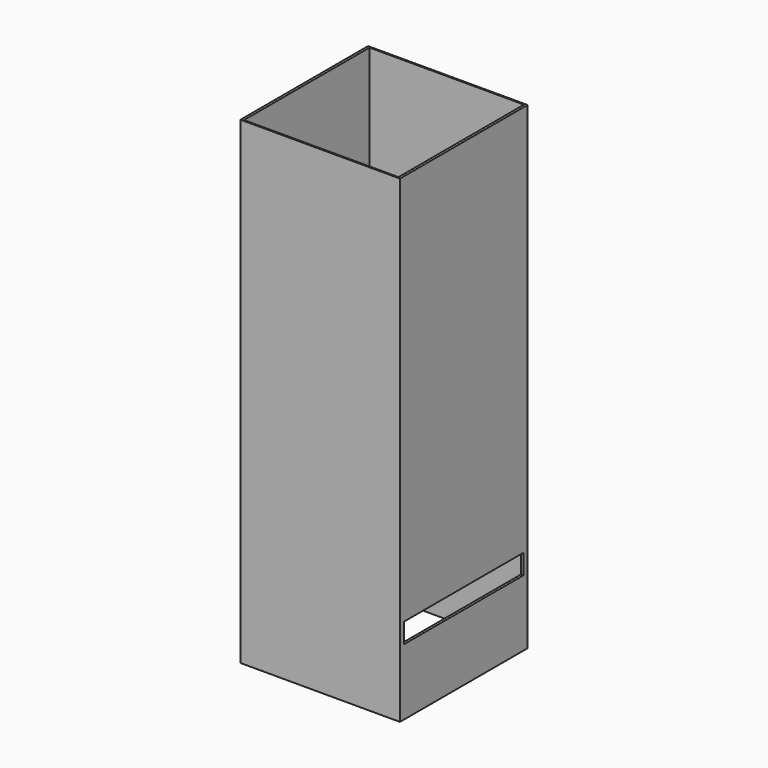
from build123d import *

# Parameters (mm, degrees)
F0_W     = 101.6
F0_H     = 304.8
F1_DEPTH = 50.8
F2_W     = 98.425
F2_H     = 100.000558
F3_DEPTH = 304.8
F4_W     = 95.25
F4_H     = 12.7
F5_DEPTH = 25.4
F6_R     = 9.525
F7_DEPTH = 5.08
F8_R     = 0.612831
F9_DEPTH = 0.254


with BuildPart() as f1:
    # F0 (on Front) → F1 (new body, symmetric)
    with BuildSketch(Plane.XZ):
        Rectangle(F0_W, F0_H)
    extrude(amount=F1_DEPTH, both=True)

    # F2 (on face) → F3 (cut)
    with BuildSketch(Plane.XY.offset(152.4)):
        Rectangle(F2_W, F2_H)
    extrude(amount=-F3_DEPTH, mode=Mode.SUBTRACT)

    # F4 (on face) → F5 (cut)
    with BuildSketch(Plane.YZ.offset(50.8)):
        with Locations((0, -103.808521)):
            Rectangle(F4_W, F4_H)
    extrude(amount=-F5_DEPTH, mode=Mode.SUBTRACT)

    # F6 (on face) → F7 (join)
    with BuildSketch(Plane(origin=(-50.8, 0, 0), x_dir=(0, -1, 0), z_dir=(-1, 0, 0))):
        with Locations((0, -127.594535)):
            Circle(F6_R)
    extrude(amount=F7_DEPTH)

    # F8 (on face) → F9 (cut)
    with BuildSketch(Plane.YZ.offset(-49.2125)):
        with Locations((0, -103.871576)):
            Circle(F8_R)
    extrude(amount=-F9_DEPTH, mode=Mode.SUBTRACT)


solid = f1.part
